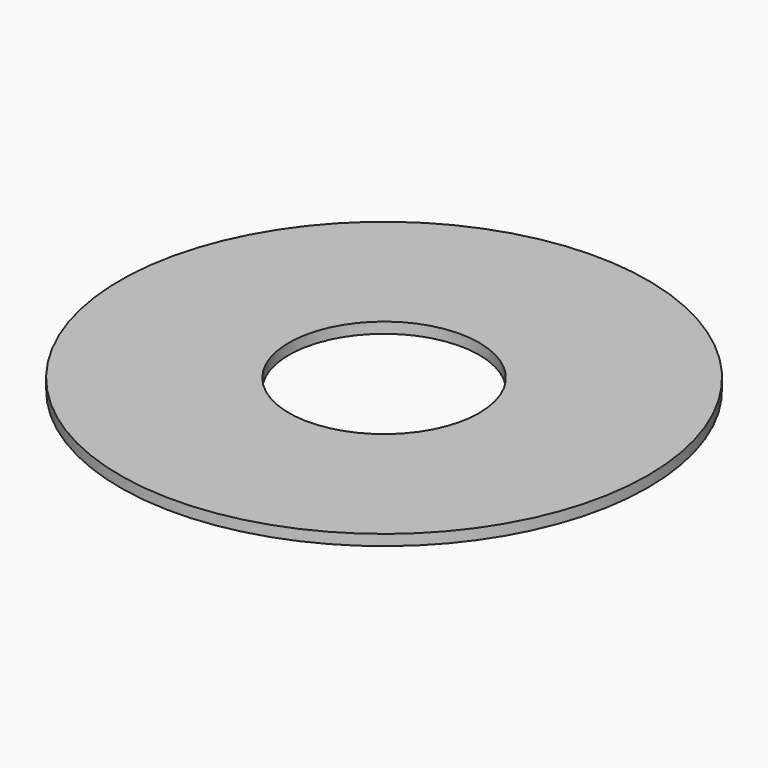
from build123d import *

# Parameters (mm, degrees)
F0_R     = 73.5
F0_R_2   = 70.5
F0_R_3   = 26.5
F1_DEPTH = 3


with BuildPart() as f1:
    # F0 (on Top) → F1 (new body)
    with BuildSketch(Plane.XY):
        Circle(F0_R)
        Circle(F0_R_2, mode=Mode.SUBTRACT)
        Circle(F0_R_2)
        Circle(F0_R_3, mode=Mode.SUBTRACT)
    extrude(amount=F1_DEPTH)


solid = f1.part
